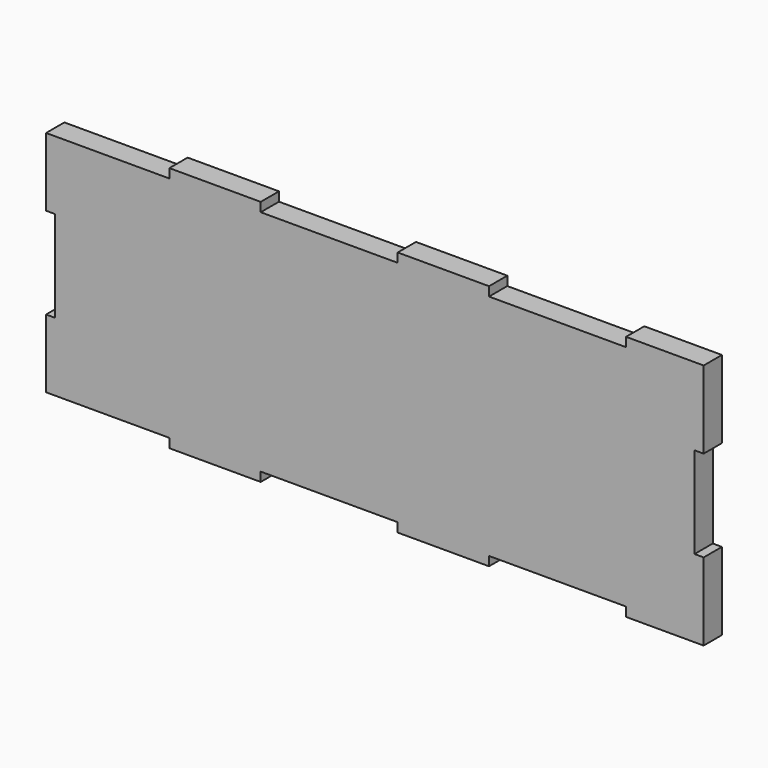
from build123d import *

# Parameters (mm, degrees)
F1_DEPTH = 5


with BuildPart() as f1:
    # F0 (on Front) → F1 (new body)
    with BuildSketch(Plane.XZ):
        Polygon((0, 15), (0, 0), (27, 0), (27, -2), (47, -2), (47, 0), (77, 0), (77, -2), (97, -2), (97, 0), (127, 0), (127, -2), (144, -2), (144, 15), (142, 15), (142, 35), (144, 35), (144, 52), (127, 52), (127, 50), (97, 50), (97, 52), (77, 52), (77, 50), (47, 50), (47, 52), (27, 52), (27, 50), (0, 50), (0, 35), (2, 35), (2, 15), align=None)
    extrude(amount=F1_DEPTH)


solid = f1.part
